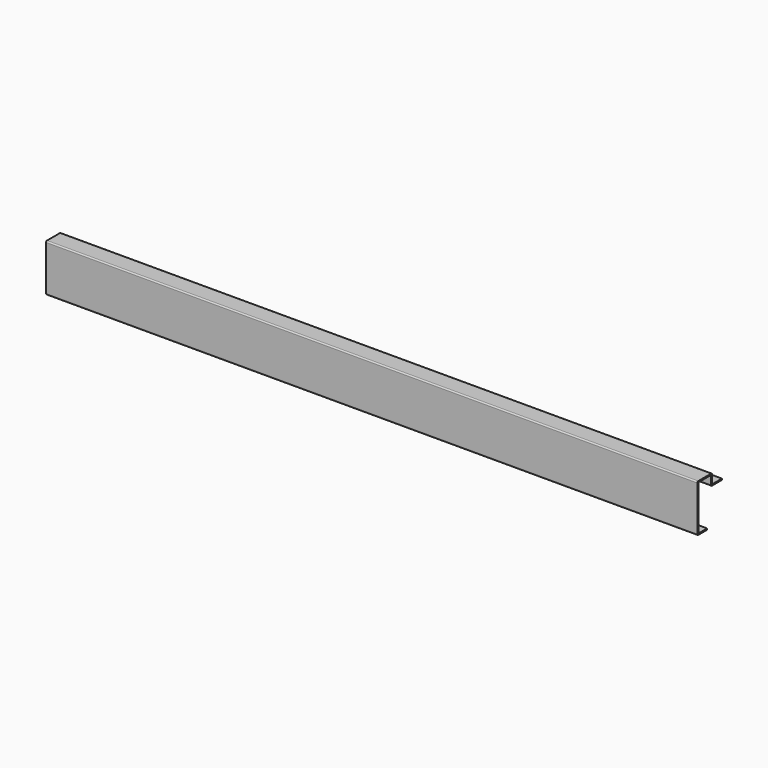
from build123d import *

# Parameters (mm, degrees)
F1_DEPTH = 2114


with BuildPart() as f1:
    # F0 (on Right) → F1 (new body)
    with BuildSketch(Plane.YZ):
        with BuildLine():
            ThreePointArc((0, 4), (1.171573, 1.171573), (4, 0))
            Line((4, 0), (40, 0))
            Line((40, 0), (40, 4))
            Line((40, 4), (8, 4))
            ThreePointArc((8, 4), (5.171573, 5.171573), (4, 8))
            Line((4, 8), (4, 146))
            ThreePointArc((4, 146), (5.171573, 148.828427), (8, 150))
            Line((8, 150), (52, 150))
            ThreePointArc((52, 150), (54.828427, 148.828427), (56, 146))
            Line((56, 146), (56, 122))
            ThreePointArc((56, 122), (57.171573, 119.171573), (60, 118))
            Line((60, 118), (100, 118))
            Line((100, 118), (100, 122))
            Line((100, 122), (64, 122))
            ThreePointArc((64, 122), (61.171573, 123.171573), (60, 126))
            Line((60, 126), (60, 150))
            ThreePointArc((60, 150), (58.828427, 152.828427), (56, 154))
            Line((56, 154), (4, 154))
            ThreePointArc((4, 154), (1.171573, 152.828427), (0, 150))
            Line((0, 150), (0, 4))
        make_face()
    extrude(amount=F1_DEPTH)


solid = f1.part
